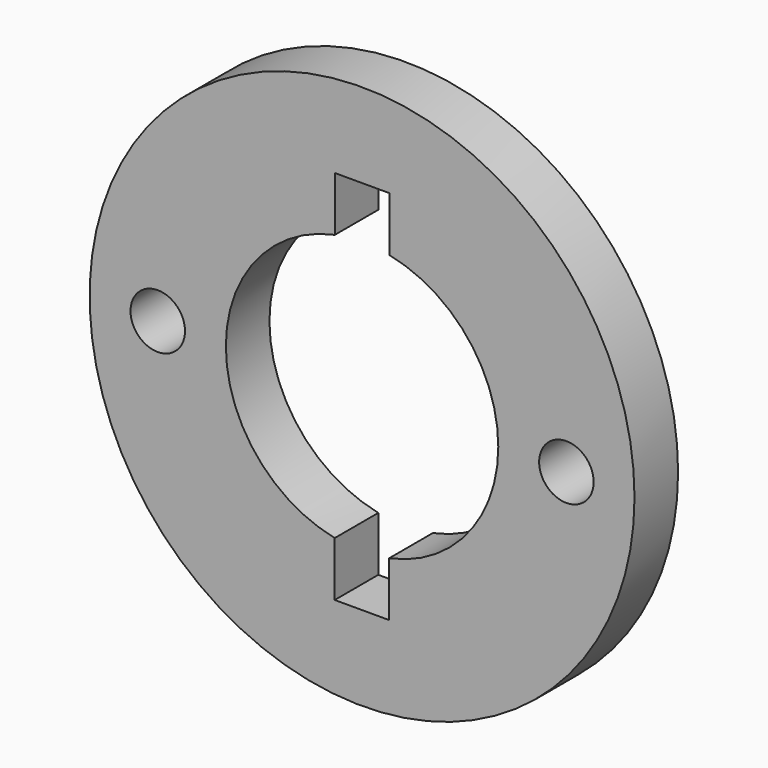
from build123d import *

# Parameters (mm, degrees)
F0_R     = 50
F0_R_2   = 5
F2_DEPTH = 10


with BuildPart() as f2:
    # F0 (on Front) → F2 (new body)
    with BuildSketch(Plane.XZ):
        Circle(F0_R)
        with BuildLine():
            ThreePointArc((-5.02022, -24.490761), (-24.999998, 0.010319), (-5, 24.494897))
            Line((-5, 24.494897), (-5, 34.494897))
            Line((-5, 34.494897), (0, 34.494897))
            Line((0, 34.494897), (5, 34.494897))
            Line((5, 34.494897), (5, 24.494897))
            ThreePointArc((5, 24.494897), (24.999998, -0.010318), (4.97978, -24.499016))
            Line((4.97978, -24.499016), (4.97978, -34.499016))
            Line((4.97978, -34.499016), (-5.02022, -34.499016))
            Line((-5.02022, -34.499016), (-5.02022, -24.490761))
        make_face(mode=Mode.SUBTRACT)
        with Locations((-37.5, 0)):
            Circle(F0_R_2, mode=Mode.SUBTRACT)
        with Locations((37.5, 0)):
            Circle(F0_R_2, mode=Mode.SUBTRACT)
    extrude(amount=F2_DEPTH)


solid = f2.part
